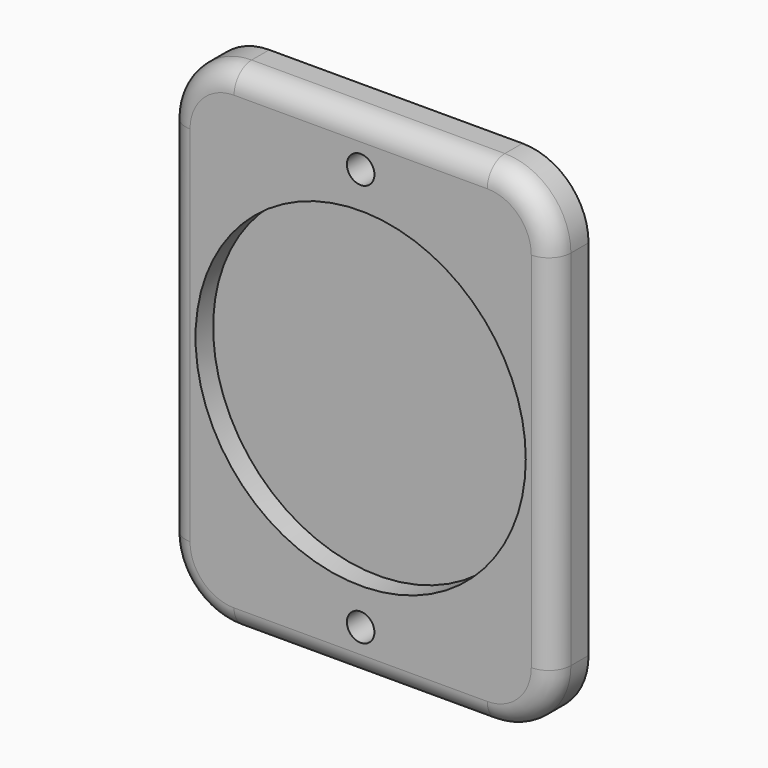
from build123d import *

# Parameters (mm, degrees)
F1_DEPTH = 5.08
F2_R     = 1.5875
F3_DEPTH = 25.4
F4_R     = 2.54
F5_R     = 19.05
F6_DEPTH = 2.54


with BuildPart() as f1:
    # F0 (on Front) → F1 (new body)
    with BuildSketch(Plane.XZ):
        with BuildLine():
            ThreePointArc((0, 7.62), (2.231846, 2.231846), (7.62, 0))
            Line((7.62, 0), (36.83, 0))
            ThreePointArc((36.83, 0), (42.218154, 2.231846), (44.45, 7.62))
            Line((44.45, 7.62), (44.45, 49.53))
            ThreePointArc((44.45, 49.53), (42.218154, 54.918154), (36.83, 57.15))
            Line((36.83, 57.15), (7.62, 57.15))
            ThreePointArc((7.62, 57.15), (2.231846, 54.918154), (0, 49.53))
            Line((0, 49.53), (0, 7.62))
        make_face()
    extrude(amount=F1_DEPTH)

    # F2 (on Front) → F3 (cut)
    with BuildSketch(Plane.XZ):
        with Locations((22.225, 51.816)):
            Circle(F2_R)
        with Locations((22.225, 5.334)):
            Circle(F2_R)
    extrude(amount=F3_DEPTH, mode=Mode.SUBTRACT)

    # F4
    f4_edges = [f1.edges().sort_by_distance(p)[0] for p in [
        (22.225, -5.08, 57.15),
    ]]
    fillet(f4_edges, radius=F4_R)

    # F5 (on face) → F6 (cut)
    with BuildSketch(Plane.XZ.offset(5.08)):
        with Locations((22.225, 28.575)):
            Circle(F5_R)
    extrude(amount=-F6_DEPTH, mode=Mode.SUBTRACT)


solid = f1.part
